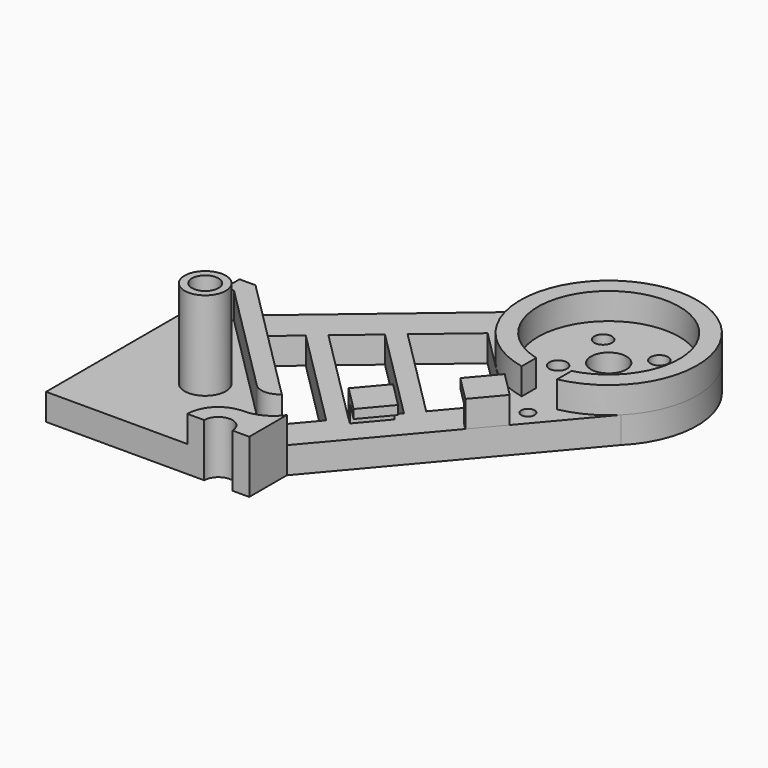
from build123d import *

# Parameters (mm, degrees)
PAD_DEPTH       = 3
SKETCH002_R     = 2
SKETCH002_R_2   = 1
POCKET_DEPTH    = 3
POCKET001_DEPTH = 3
SKETCH005_R     = 2.33
PAD001_DEPTH    = 10
PAD002_DEPTH    = 3
SKETCH009_R     = 10
SKETCH009_R_2   = 8
PAD003_DEPTH    = 3
SKETCH011_R     = 0.75
POCKET002_DEPTH = 3
PAD004_DEPTH    = 3
SKETCH007_R     = 1.5
POCKET003_DEPTH = 7
POCKET004_DEPTH = 6
SKETCH014_W     = 3.5
SKETCH014_H     = 2
POCKET005_DEPTH = 3
POCKET006_DEPTH = 3
SKETCH013_W     = 6
SKETCH013_H     = 2
POCKET007_DEPTH = 3
SKETCH012_W     = 4.5
SKETCH012_H     = 2
POCKET008_DEPTH = 3


with BuildPart() as part:
    # Sketch001 → Pad (new body)
    with BuildSketch(Plane.XY):
        with BuildLine():
            Line((28.284271, 42.426407), (5.303301, 22.98097))
            Line((5.303301, 22.98097), (0, 22.98097))
            Line((0, 22.98097), (0, 0))
            Line((0, 0), (22.98097, 0))
            Line((22.98097, 0), (22.98097, 5.303301))
            Line((22.98097, 5.303301), (42.426407, 28.284271))
            ThreePointArc((42.426407, 28.284271), (42.426407, 42.426407), (28.284271, 42.426407))
        make_face()
    extrude(amount=PAD_DEPTH)

    # Sketch002 → Pocket (cut)
    with BuildSketch(Plane.XY.offset(3)):
        with Locations((35.355339, 35.355339)):
            Circle(SKETCH002_R)
        with Locations((38.53732, 38.53732)):
            Circle(SKETCH002_R_2)
        with Locations((32.173359, 38.53732)):
            Circle(SKETCH002_R_2)
        with Locations((32.173359, 32.173359)):
            Circle(SKETCH002_R_2)
        with Locations((38.53732, 32.173359)):
            Circle(SKETCH002_R_2)
    extrude(amount=-POCKET_DEPTH, mode=Mode.SUBTRACT)

    # Sketch003 → Pocket001 (cut)
    with BuildSketch(Plane.XY.offset(3)):
        Polygon((20.152543, 8.131728), (8.131728, 20.152543), (11.185273, 22.736312), (22.736312, 11.185273), align=None)
        Polygon((24.028197, 12.712046), (12.712046, 24.028197), (16.528977, 27.257908), (27.257908, 16.528977), align=None)
        Polygon((28.549792, 18.05575), (18.05575, 28.549792), (23.452375, 33.116168), (33.116168, 23.452375), align=None)
    extrude(amount=-POCKET001_DEPTH, mode=Mode.SUBTRACT)

    # Sketch005 → Pad001 (new body)
    with BuildSketch(Plane.XY.offset(3)):
        with Locations((10, 10)):
            Circle(SKETCH005_R)
    extrude(amount=PAD001_DEPTH)

    # Sketch004 → Pad002 (new body)
    with BuildSketch(Plane.XY.offset(3)):
        with BuildLine():
            Line((5.303301, 22.98097), (20.152543, 8.131728))
            ThreePointArc((17.324116, 8.131728), (18.73833, 7.545942), (20.152543, 8.131728))
            Line((17.324116, 8.131728), (4.474874, 20.98097))
            Line((0, 20.98097), (4.474874, 20.98097))
            Line((0, 22.98097), (0, 20.98097))
            Line((5.303301, 22.98097), (0, 22.98097))
        make_face()
        with BuildLine():
            Line((22.98097, 5.303301), (22.98097, 0))
            Line((22.98097, 0), (20.98097, 0))
            Line((20.98097, 0), (17.98097, 0))
            Line((17.98097, 0), (15.98097, 0))
            ThreePointArc((19.48097, 3.5), (17.006097, 2.474874), (15.98097, 0))
            ThreePointArc((19.48097, 3.5), (21.449594, 3.977326), (22.98097, 5.303301))
        make_face()
    extrude(amount=PAD002_DEPTH)

    # Sketch009 → Pad003 (new body)
    with BuildSketch(Plane.XY.offset(3)):
        with Locations((35.355339, 35.355339)):
            Circle(SKETCH009_R)
        with Locations((35.355339, 35.355339)):
            Circle(SKETCH009_R_2, mode=Mode.SUBTRACT)
    extrude(amount=PAD003_DEPTH)

    # Sketch011 → Pocket002 (cut)
    with BuildSketch(Plane.XY.offset(3)):
        with Locations((35.732096, 23.469065)):
            Circle(SKETCH011_R)
    extrude(amount=-POCKET002_DEPTH, mode=Mode.SUBTRACT)

    # Sketch006 → Pad004 (new body)
    with BuildSketch(Plane.XY.offset(3)):
        Polygon((35.944595, 20.623948), (33.360826, 17.570403), (30.532399, 20.39883), (33.116168, 23.452375), align=None)
        Polygon((24.041631, 12.727922), (26.870058, 9.899495), (29.453827, 12.95304), (26.6254, 15.781467), align=None)
    extrude(amount=PAD004_DEPTH)

    # Sketch007 → Pocket003 (cut)
    with BuildSketch(Plane.XY.offset(13)):
        with Locations((10, 10)):
            Circle(SKETCH007_R)
    extrude(amount=-POCKET003_DEPTH, mode=Mode.SUBTRACT)

    # Sketch008 → Pocket004 (cut)
    with BuildSketch(Plane.XY.offset(6)):
        with BuildLine():
            ThreePointArc((21.08097, 0), (19.48097, 1.6), (17.88097, 0))
            Line((21.08097, 0), (17.88097, 0))
        make_face()
    extrude(amount=-POCKET004_DEPTH, mode=Mode.SUBTRACT)

    # Sketch014 → Pocket005 (cut)
    with BuildSketch(Plane.XY.offset(6)):
        with Locations((1.75, 21.98097)):
            Rectangle(SKETCH014_W, SKETCH014_H)
    extrude(amount=-POCKET005_DEPTH, mode=Mode.SUBTRACT)

    # Sketch010 → Pocket006 (cut)
    with BuildSketch(Plane.XY.offset(6)):
        with BuildLine():
            ThreePointArc((33.355339, 27.609372), (35.355339, 27.355339), (37.355339, 27.609372))
            Line((37.355339, 27.609372), (37.355339, 25.55738))
            ThreePointArc((33.355339, 25.55738), (35.355339, 25.355339), (37.355339, 25.55738))
            Line((33.355339, 27.609372), (33.355339, 25.55738))
        make_face()
    extrude(amount=-POCKET006_DEPTH, mode=Mode.SUBTRACT)

    # Sketch013 → Pocket007 (cut)
    with BuildSketch(Plane(origin=(10.777283, -9.119239, 0), x_dir=(0.645942, 0.763386, 0), z_dir=(0.763386, -0.645942, 0))):
        with Locations((27, 4)):
            Rectangle(SKETCH013_W, SKETCH013_H)
    extrude(amount=-POCKET007_DEPTH, mode=Mode.SUBTRACT)

    # Sketch012 → Pocket008 (cut)
    with BuildSketch(Plane(origin=(7.734285, -6.544395, 0), x_dir=(-0.645942, -0.763386, 0), z_dir=(-0.763386, 0.645942, 0))):
        with Locations((-37.25, 4)):
            Rectangle(SKETCH012_W, SKETCH012_H)
    extrude(amount=-POCKET008_DEPTH, mode=Mode.SUBTRACT)


solid = part.part
